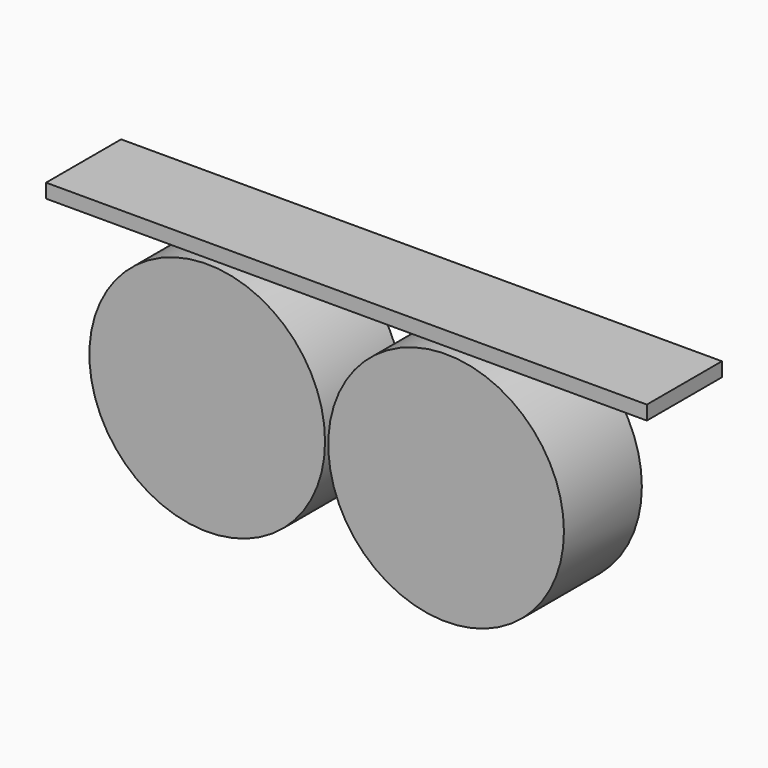
from build123d import *

# Parameters (mm, degrees)
F0_W     = 108.098623
F0_H     = 16.881542
F1_DEPTH = 2.54
F2_R     = 21.203461
F3_DEPTH = 17.526


with BuildPart() as f1:
    # F0 (on Top) → F1 (new body)
    with BuildSketch(Plane.XY):
        with Locations((-18.442021, -8.440771)):
            Rectangle(F0_W, F0_H)
    extrude(amount=F1_DEPTH)


with BuildPart() as f3:
    # F2 (on Front) → F3 (new body)
    with BuildSketch(Plane.XZ):
        with Locations((-42.984094, -21.704841)):
            Circle(F2_R)
        with Locations((0, -21.988563)):
            Circle(F2_R)
    extrude(amount=F3_DEPTH)


solid = Compound([f1.part, f3.part])
